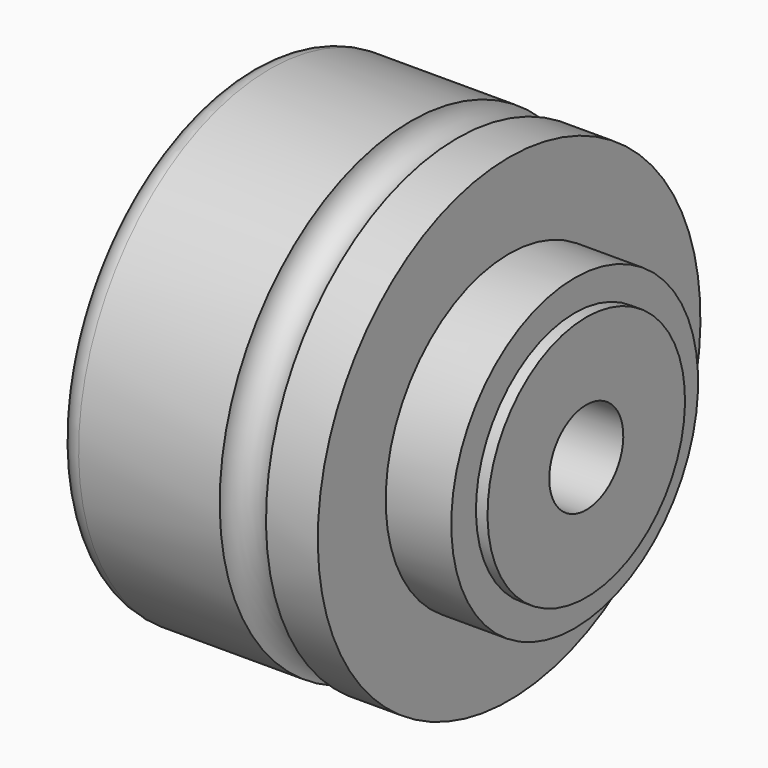
from build123d import *

# Parameters (mm, degrees)
F4_R = 6


with BuildPart() as f1:
    # F0 (on Front) → F1 (revolve)
    with BuildSketch(Plane.XZ):
        with BuildLine():
            Line((0, 62), (0, 0))
            Line((0, 0), (88, 0))
            Line((88, 0), (88, 32))
            Line((88, 32), (85, 32))
            Line((85, 32), (85, 40))
            Line((85, 40), (68, 40))
            Line((68, 40), (68, 62))
            Line((68, 62), (54.569368, 62))
            ThreePointArc((54.569368, 62), (48.569368, 56), (42.569368, 62))
            Line((42.569368, 62), (0, 62))
        make_face()
    revolve(axis=Axis((-15.071996, 0, 0), (-1, 0, 0)))

    # F2 (on Front) → F3 (revolve, cut)
    with BuildSketch(Plane.XZ):
        Polygon((0, 50), (0, 0), (88, 0), (88, 12), (31.5, 12), (31.5, 32), (23.5, 32), (23.5, 41), (16.5, 41), (16.5, 22.69382), (13.5, 22.69382), (13.5, 32), (1.5, 32), (1.5, 50), align=None)
    revolve(axis=Axis((-15.359187, 0, 0), (-1, 0, 0)), mode=Mode.SUBTRACT)

    # F4
    f4_edges = [f1.edges().sort_by_distance(p)[0] for p in [
        (0, 0, -62),
    ]]
    fillet(f4_edges, radius=F4_R)


solid = f1.part
